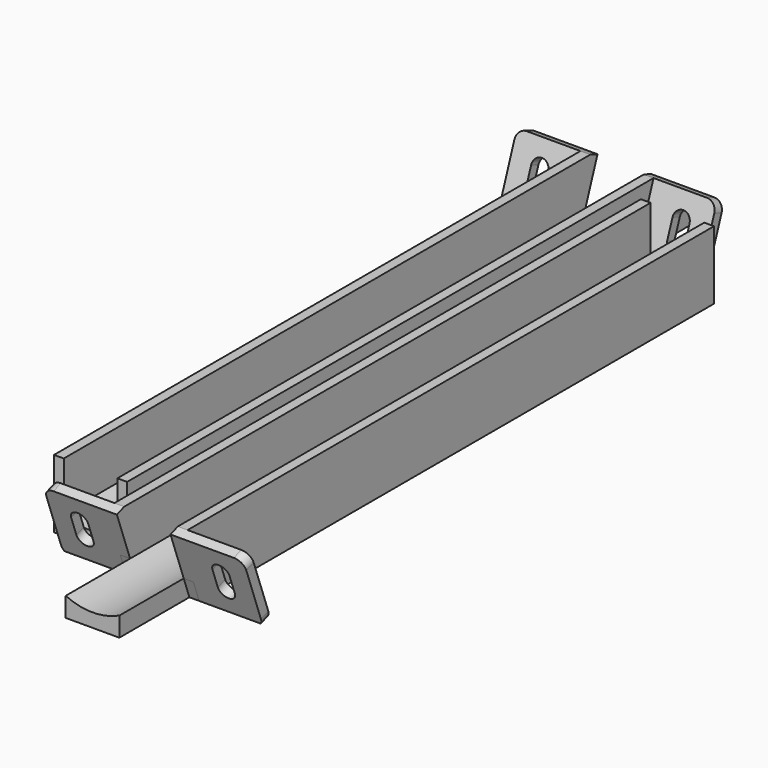
from build123d import *

# Parameters (mm, degrees)
F1_DEPTH  = 150
F2_W      = 20
F2_H      = 10
F3_DEPTH  = 25
F4_W      = 15
F4_H      = 15
F5_DEPTH  = 2
F6_R      = 2
F7_W      = 63.2960982621
F7_H      = 14.9172265083
F8_DEPTH  = 100
F10_DEPTH = 25
F12_DEPTH = 2
F14_DEPTH = 2
F15_ANGLE = 180


with BuildPart() as f1:
    # F0 (on Front) → F1 (new body)
    with BuildSketch(Plane.XZ):
        with BuildLine():
            Line((-5.5, 14), (-7.5, 14))
            Line((-7.5, 14), (-7.5, 0))
            Line((-7.5, 0), (7.5, 0))
            Line((7.5, 0), (7.5, 14))
            Line((7.5, 14), (5.5, 14))
            Line((5.5, 14), (5.5, 4))
            ThreePointArc((5.5, 4), (0, 2.7792189894), (-5.5, 4))
            Line((-5.5, 4), (-5.5, 14))
        make_face()
    extrude(amount=F1_DEPTH)

    # F2 (on face) → F3 (cut)
    with BuildSketch(Plane(origin=(-7.5, 0, 0), x_dir=(0, -1, 0), z_dir=(-1, 0, 0))):
        Polygon((15, 4), (18.6397023427, 4), (15, 14), align=None)
        with Locations((5, 9)):
            Rectangle(F2_W, F2_H)
    extrude(amount=-F3_DEPTH, mode=Mode.SUBTRACT)

    # F4 (on face) → F5 (join)
    with BuildSketch(Plane(origin=(0, -17.7448465912, 6.4585959708), x_dir=(-1, 0, 0), z_dir=(0, 0.9396926208, -0.3420201433))):
        with Locations((13, 0.5253945411)):
            Rectangle(F4_W, F4_H)
        with Locations((-13, 0.5253945411)):
            Rectangle(F4_W, F4_H)
    extrude(amount=F5_DEPTH)

    # F6
    f6_edges = [f1.edges().sort_by_distance(p)[0] for p in [
        (20.5, -14.060307, 13.65798),
        (-20.5, -14.060307, 13.65798),
        (20.5, -19.19061, -0.437409),
        (-20.5, -19.19061, -0.437409),
    ]]
    fillet(f6_edges, radius=F6_R)

    # F7 (on face) → F8 (cut)
    with BuildSketch(Plane(origin=(0, 0, 0), x_dir=(1, 0, 0), z_dir=(0, 0, -1))):
        with Locations((-3.58521007, 20.0468571857)):
            Rectangle(F7_W, F7_H)
    extrude(amount=F8_DEPTH, mode=Mode.SUBTRACT)

    # F9 (on face) → F10 (cut)
    with BuildSketch(Plane(origin=(0, -15.8654613496, 5.7745556842), x_dir=(-1, 0, 0), z_dir=(0, 0.9396926208, -0.3420201433))):
        with BuildLine():
            Line((16.2496714935, 3.0593012485), (16.2496714935, 2.9914878337))
            ThreePointArc((16.2496714935, 2.9914878337), (16.25, 3.0253945411), (16.2496714935, 3.0593012485))
        make_face()
        with BuildLine():
            Line((16.2496714935, -0.9406987515), (16.2496714935, 2.9914878337))
            Line((16.2496714935, 2.9914878337), (16.2496714935, 3.0593012485))
            ThreePointArc((16.2496714935, 3.0593012485), (14.4830458506, 4.7753124126), (12.75, 3.0253945411))
            Line((12.75, 3.0253945411), (12.75, -0.9746054589))
            ThreePointArc((12.75, -0.9746054589), (14.5169541494, -2.7245233303), (16.2496714935, -0.9406987515))
        make_face()
        with BuildLine():
            ThreePointArc((-16.2496714935, -0.9406987515), (-14.5169541494, -2.7245233303), (-12.75, -0.9746054589))
            Line((-12.75, -0.9746054589), (-12.75, 3.0253945411))
            ThreePointArc((-12.75, 3.0253945411), (-14.4830458506, 4.7753124126), (-16.2496714935, 3.0593012485))
            Line((-16.2496714935, 3.0593012485), (-16.2496714935, 2.9914878337))
            Line((-16.2496714935, 2.9914878337), (-16.2496714935, -0.9406987515))
        make_face()
        with BuildLine():
            Line((-16.2496714935, 2.9914878337), (-16.2496714935, 3.0593012485))
            ThreePointArc((-16.2496714935, 3.0593012485), (-16.25, 3.0253945411), (-16.2496714935, 2.9914878337))
        make_face()
    extrude(amount=-F10_DEPTH, mode=Mode.SUBTRACT)

    # F11 (on face) → F12 (cut)
    with BuildSketch(Plane.YZ.offset(7.5)):
        Polygon((0, 4), (-16.5113467977, 4), (-17.9672277348, 0), (0, 0), align=None)
    extrude(amount=-F12_DEPTH, mode=Mode.SUBTRACT)

    # F13 (on face) → F14 (cut)
    with BuildSketch(Plane(origin=(-7.5, 0, 0), x_dir=(0, -1, 0), z_dir=(-1, 0, 0))):
        Polygon((16.5113467977, 4), (0, 4), (0, 0), (17.9672277348, 0), align=None)
    extrude(amount=-F14_DEPTH, mode=Mode.SUBTRACT)


with BuildPart() as f15_1:
    # F15: copy of F1
    add(f1.part.rotate(Axis((7.5, -150, 7), (0, 0, -1)), F15_ANGLE))


with BuildPart() as f15_1_1:
    # F16: moved
    add(f15_1.part.moved(Location((3, 128, 0))))


solid = Compound([f1.part, f15_1_1.part])
